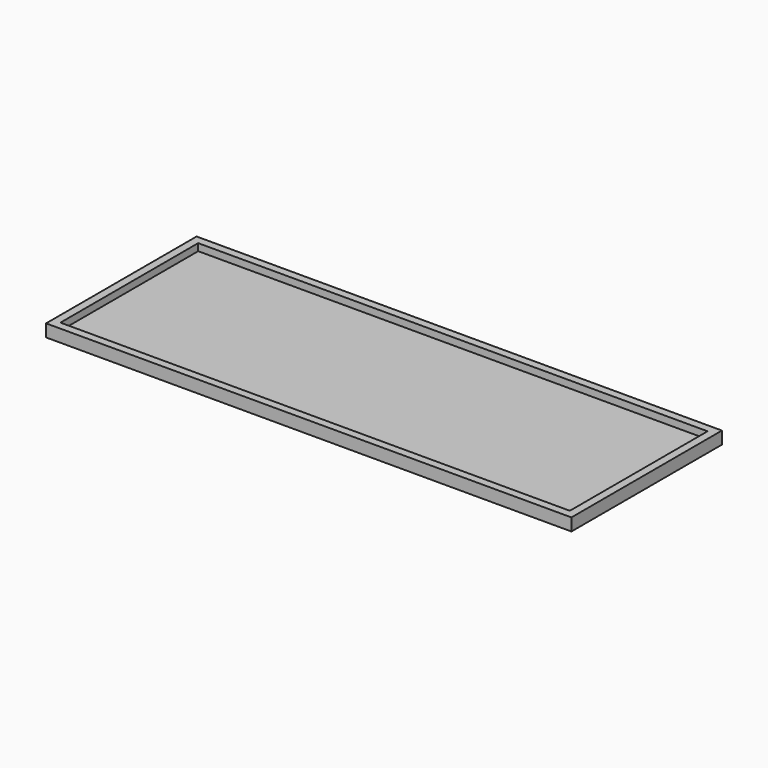
from build123d import *

# Parameters (mm, degrees)
SKETCH_W     = 296
SKETCH_H     = 106
PAD_DEPTH    = 7
SKETCH001_W  = 287
SKETCH001_H  = 97
POCKET_DEPTH = 4


with BuildPart() as part:
    # Sketch → Pad (new body)
    with BuildSketch(Plane.XY):
        Rectangle(SKETCH_W, SKETCH_H)
    extrude(amount=PAD_DEPTH)

    # Sketch001 (on Face6 of Pad) → Pocket (cut)
    with BuildSketch(Plane.XY.offset(7)):
        Rectangle(SKETCH001_W, SKETCH001_H)
    extrude(amount=-POCKET_DEPTH, mode=Mode.SUBTRACT)


solid = part.part
